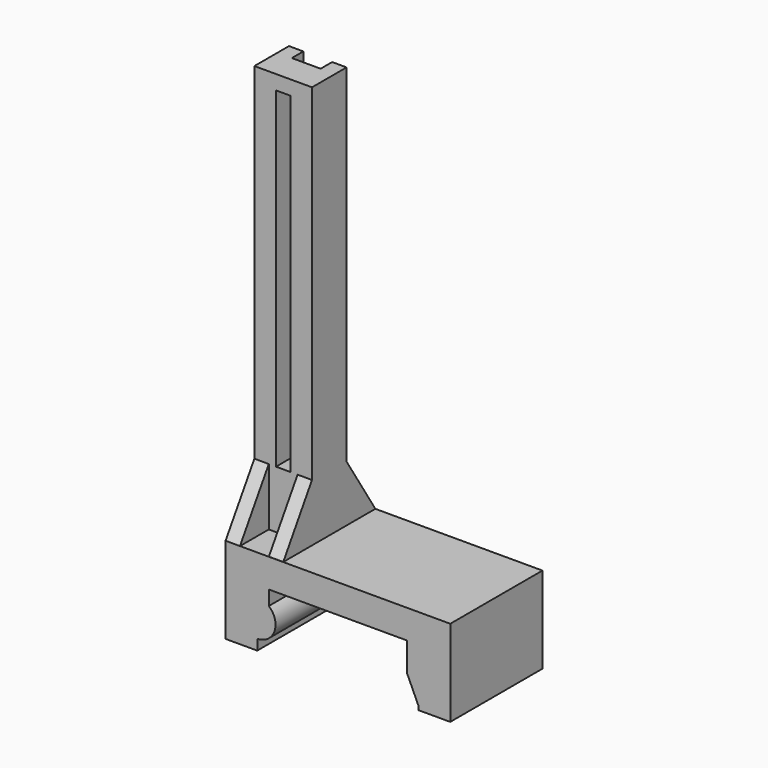
from build123d import *

# Parameters (mm, degrees)
F1_DEPTH  = 25.4
F2_W      = 71.12
F2_H      = 27.3908400369
F3_DEPTH  = 50.8
F4_R      = 8.0648205789
F5_DEPTH  = 50.8
F7_DEPTH  = 50.8
F8_W      = 25.4
F8_H      = 19.05
F9_DEPTH  = 177.8
F10_W     = 12.7
F10_H     = 177.8
F11_DEPTH = 6.35
F12_W     = 6.35
F12_H     = 146.05
F13_DEPTH = 28.576
F15_DEPTH = 6.35
F17_DEPTH = 6.35


with BuildPart() as f1:
    # F0 (on Front) → F1 (new body, symmetric)
    with BuildSketch(Plane.XZ):
        Polygon((30.48, -19.05), (49.53, -19.05), (49.53, 19.05), (-49.53, 19.05), (-49.53, -19.05), (-30.48, -19.05), (-30.48, 6.35), (30.48, 6.35), align=None)
    extrude(amount=F1_DEPTH, both=True)

    # F2 (on Front) → F3 (cut, symmetric)
    with BuildSketch(Plane.XZ):
        with Locations((0, -20.0454200185)):
            Rectangle(F2_W, F2_H)
    extrude(amount=F3_DEPTH, both=True, mode=Mode.SUBTRACT)

    # F4 (on face) → F5 (join)
    with BuildSketch(Plane.XZ.offset(25.4)):
        with Locations((-35.56, -6.35)):
            Circle(F4_R)
    extrude(amount=-F5_DEPTH)

    # F6 (on face) → F7 (join)
    with BuildSketch(Plane.XZ.offset(25.4)):
        Polygon((35.56, -17.4720194191), (35.56, -6.35), (30.48, -6.35), align=None)
    extrude(amount=-F7_DEPTH)

    # F8 (on face) → F9 (join)
    with BuildSketch(Plane.XY.offset(19.05)):
        with Locations((-36.83, 0)):
            Rectangle(F8_W, F8_H)
    extrude(amount=F9_DEPTH)

    # F10 (on face) → F11 (cut)
    with BuildSketch(Plane(origin=(0, 9.525, 0), x_dir=(-1, 0, 0), z_dir=(0, 1, 0))):
        with Locations((36.83, 133.35)):
            Rectangle(F10_W, F10_H)
    extrude(amount=-F11_DEPTH, mode=Mode.SUBTRACT)

    # F12 (on face) → F13 (cut, through all)
    with BuildSketch(Plane(origin=(0, 3.175, 0), x_dir=(-1, 0, 0), z_dir=(0, 1, 0))):
        with Locations((36.83, 117.475)):
            Rectangle(F12_W, F12_H)
    extrude(amount=-F13_DEPTH, mode=Mode.SUBTRACT)

    # F14 (on face) → F15 (join)
    with BuildSketch(Plane(origin=(-49.53, 0, 0), x_dir=(0, -1, 0), z_dir=(-1, 0, 0))):
        Polygon((-25.4, 19.05), (-9.525, 19.05), (-9.525, 44.45), align=None)
        Polygon((25.4, 19.05), (9.525, 44.45), (9.525, 19.05), align=None)
    extrude(amount=-F15_DEPTH)

    # F16 (on face) → F17 (join)
    with BuildSketch(Plane.YZ.offset(-24.13)):
        Polygon((-25.3417864442, 19.05), (-9.525, 19.05), (-9.525, 44.45), align=None)
        Polygon((9.525, 43.8476071775), (9.525, 19.05), (25.4153106362, 19.05), align=None)
    extrude(amount=-F17_DEPTH)


solid = f1.part
